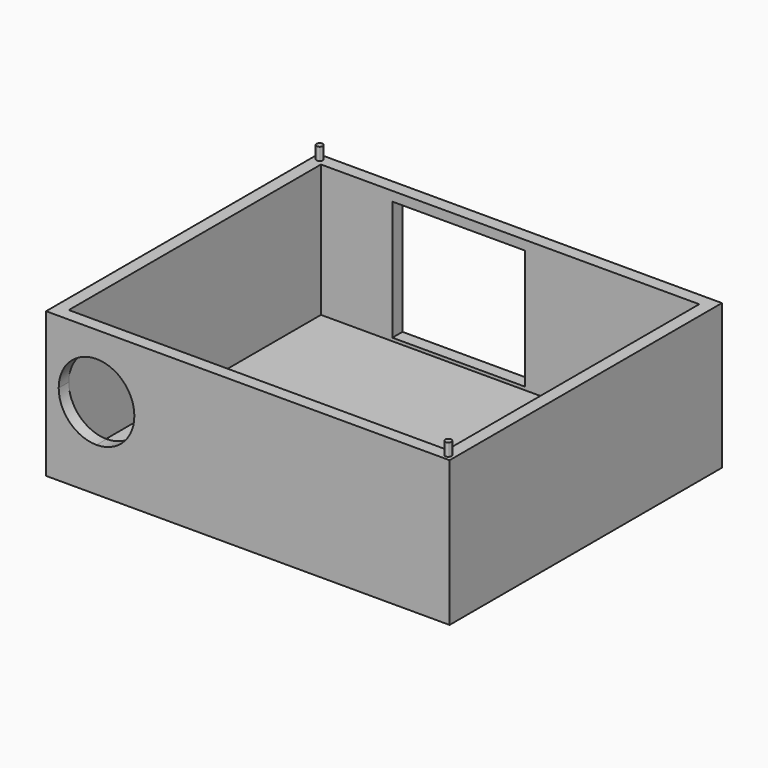
from build123d import *

# Parameters (mm, degrees)
F0_W          = 64
F0_H          = 54
F1_DEPTH      = 23
F2_W          = 60
F2_H          = 50
F3_DEPTH      = 21
F5_DEPTH      = 25.4
F5_DEPTH_BACK = 25.4
F7_DEPTH      = 25.4
F7_DEPTH_BACK = 25.4
F11_DEPTH     = 2
F13_DEPTH     = 2


with BuildPart() as f1:
    # F0 (on Top) → F1 (new body)
    with BuildSketch(Plane.XY):
        Rectangle(F0_W, F0_H)
    extrude(amount=F1_DEPTH)

    # F2 (on face) → F3 (cut)
    with BuildSketch(Plane.XY.offset(23)):
        Rectangle(F2_W, F2_H)
    extrude(amount=-F3_DEPTH, mode=Mode.SUBTRACT)

    # F4 (on face) → F5 (cut, two sides)
    with BuildSketch(Plane(origin=(0, -25, 0), x_dir=(-1, 0, 0), z_dir=(0, 1, 0))) as f5_sk:
        with BuildLine():
            ThreePointArc((24, 6.93), (28.2426406871, 8.6873593129), (30, 12.93))
            ThreePointArc((30, 12.93), (28.2426406871, 17.1726406871), (24, 18.93))
            ThreePointArc((24, 18.93), (19.7573593129, 17.1726406871), (18, 12.93))
            ThreePointArc((18, 12.93), (19.7573593129, 8.6873593129), (24, 6.93))
        make_face()
    extrude(amount=-F5_DEPTH, mode=Mode.SUBTRACT)
    extrude(f5_sk.sketch, amount=F5_DEPTH_BACK, mode=Mode.SUBTRACT)

    # F6 (on face) → F7 (cut, two sides)
    with BuildSketch(Plane.XZ.offset(-25)) as f7_sk:
        Polygon((-18.6692412496, 2.5), (-8.1692412496, 2.5), (2.3307587504, 2.5), (2.3307587504, 21.5), (-18.6692412496, 21.5), align=None)
    extrude(amount=-F7_DEPTH, mode=Mode.SUBTRACT)
    extrude(f7_sk.sketch, amount=F7_DEPTH_BACK, mode=Mode.SUBTRACT)

    # F10 (on face) → F11 (join)
    with BuildSketch(Plane.XY.offset(23)):
        with BuildLine():
            Line((-30.6464466094, 26.3535533906), (-31, 26))
            Line((-31, 26), (-30.6464466094, 25.6464466094))
            ThreePointArc((-30.6464466094, 25.6464466094), (-30.5380602337, 25.8086582838), (-30.5, 26))
            ThreePointArc((-30.5, 26), (-30.5380602337, 26.1913417162), (-30.6464466094, 26.3535533906))
        make_face()
        with BuildLine():
            ThreePointArc((-30.6464466094, 26.3535533906), (-31, 26.5), (-31.3535533906, 26.3535533906))
            Line((-31.3535533906, 26.3535533906), (-31, 26))
            Line((-31, 26), (-30.6464466094, 26.3535533906))
        make_face()
        with BuildLine():
            Line((-31, 26), (-31.3535533906, 26.3535533906))
            ThreePointArc((-31.3535533906, 26.3535533906), (-31.5, 26), (-31.3535533906, 25.6464466094))
            Line((-31.3535533906, 25.6464466094), (-31, 26))
        make_face()
        with BuildLine():
            Line((-30.6464466094, 25.6464466094), (-31, 26))
            Line((-31, 26), (-31.3535533906, 25.6464466094))
            ThreePointArc((-31.3535533906, 25.6464466094), (-31, 25.5), (-30.6464466094, 25.6464466094))
        make_face()
    extrude(amount=F11_DEPTH)

    # F12 (on face) → F13 (join)
    with BuildSketch(Plane.XY.offset(23)):
        with BuildLine():
            Line((31, -26), (30.6464466094, -25.6464466094))
            ThreePointArc((30.6464466094, -25.6464466094), (30.5, -26), (30.6464466094, -26.3535533906))
            Line((30.6464466094, -26.3535533906), (31, -26))
        make_face()
        with BuildLine():
            ThreePointArc((31.3535533906, -25.6464466094), (31, -25.5), (30.6464466094, -25.6464466094))
            Line((30.6464466094, -25.6464466094), (31, -26))
            Line((31, -26), (31.3535533906, -25.6464466094))
        make_face()
        with BuildLine():
            Line((31.3535533906, -25.6464466094), (31, -26))
            Line((31, -26), (31.3535533906, -26.3535533906))
            ThreePointArc((31.3535533906, -26.3535533906), (31.4619397663, -26.1913417162), (31.5, -26))
            ThreePointArc((31.5, -26), (31.4619397663, -25.8086582838), (31.3535533906, -25.6464466094))
        make_face()
        with BuildLine():
            Line((31.3535533906, -26.3535533906), (31, -26))
            Line((31, -26), (30.6464466094, -26.3535533906))
            ThreePointArc((30.6464466094, -26.3535533906), (31, -26.5), (31.3535533906, -26.3535533906))
        make_face()
    extrude(amount=F13_DEPTH)


solid = f1.part
